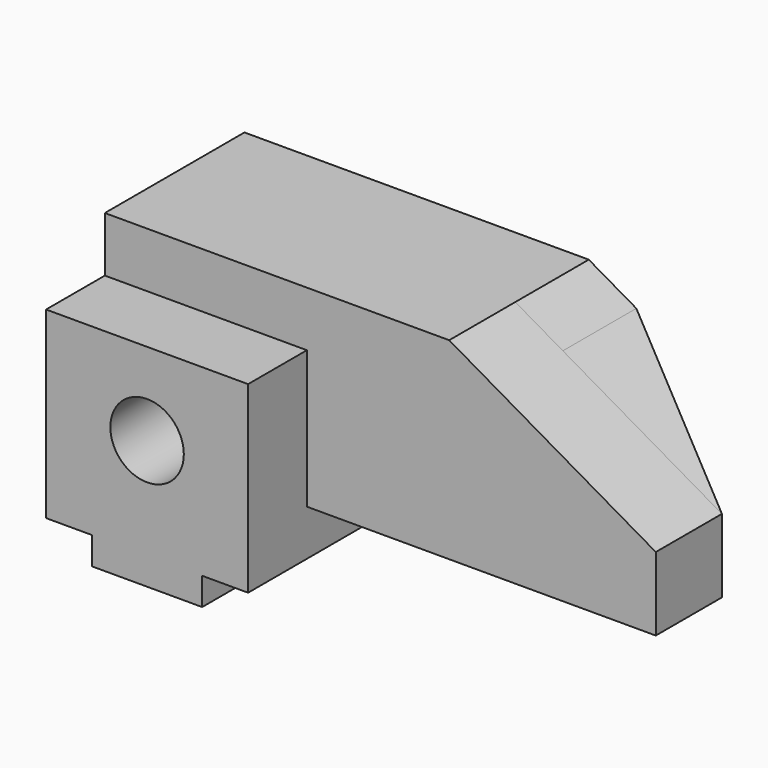
from build123d import *

# Parameters (mm, degrees)
F1_DEPTH  = 16
F2_W      = 44
F2_H      = 30
F3_DEPTH  = 18
F4_R      = 8
F5_DEPTH  = 22
F7_DEPTH  = 26
F9_DEPTH  = 42
F11_DEPTH = 20.001
F13_DEPTH = 20


with BuildPart() as f1:
    # F0 (on Front) → F1 (new body)
    with BuildSketch(Plane.XZ):
        Polygon((0, 40), (0, 0), (10, 0), (10, -6), (34, -6), (34, 0), (44, 0), (44, 40), align=None)
    extrude(amount=F1_DEPTH)

    # F2 (on face) → F3 (join)
    with BuildSketch(Plane.XZ):
        Polygon((0, 52), (0, 40), (44, 40), (44, 10), (120, 10), (120, 26.019238), (75, 52), align=None)
        with Locations((22, 25)):
            Rectangle(F2_W, F2_H)
    extrude(amount=-F3_DEPTH)

    # F4 (on face) → F5 (cut)
    with BuildSketch(Plane.XZ.offset(16)):
        with Locations((22, 22)):
            Circle(F4_R)
    extrude(amount=-F5_DEPTH, mode=Mode.SUBTRACT)

    # F6 (on face) → F7 (join)
    with BuildSketch(Plane.XZ):
        Polygon((44, 10), (0, 10), (0, 0), (10, 0), (10, -6), (34, -6), (34, 0), (44, 0), align=None)
    extrude(amount=-F7_DEPTH)

    # F8 (on face) → F9 (join)
    with BuildSketch(Plane(origin=(0, 0, 10), x_dir=(1, 0, 0), z_dir=(0, 0, -1))):
        Polygon((85.358984, -18), (85.358984, -38), (120, -18), align=None)
    extrude(amount=-F9_DEPTH)

    # F10 (on face) → F11 (cut, through all)
    with BuildSketch(Plane.XZ.offset(-18)):
        Polygon((120, 52), (85.358984, 52), (85.358984, 46.019238), (120, 26.019238), align=None)
    extrude(amount=-F11_DEPTH, mode=Mode.SUBTRACT)

    # F12 (on face) → F13 (join)
    with BuildSketch(Plane(origin=(0, 18, 0), x_dir=(-1, 0, 0), z_dir=(0, 1, 0))):
        Polygon((-75, 52), (-85.358984, 46.019238), (-85.358984, 10), (-44, 10), (0, 10), (0, 52), align=None)
    extrude(amount=F13_DEPTH)


solid = f1.part
